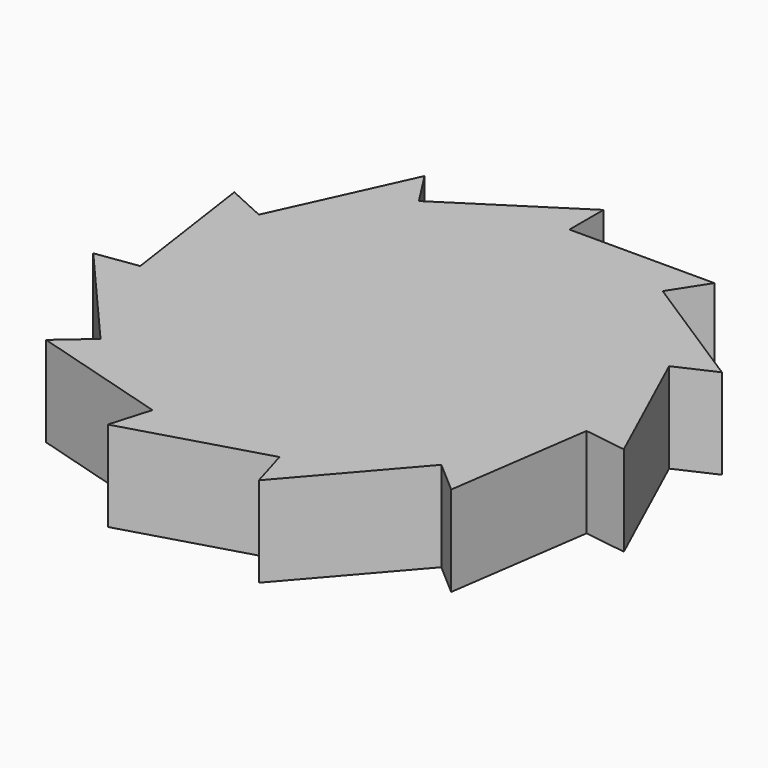
from build123d import *

# Parameters (mm, degrees)
F1_DEPTH = 10


with BuildPart() as f1:
    # F0 (on Top) → F1 (new body)
    with BuildSketch(Plane.XY):
        Polygon((0, 25), (0, 29.717557), (-13.51602, 21.031338), (-16.066524, 25), (-22.7408, 10.385375), (-27.032041, 12.345119), (-24.745536, -3.557871), (-29.415075, -4.229249), (-18.893739, -16.371518), (-22.459031, -19.460861), (-7.043314, -23.987324), (-8.372403, -28.513787), (7.043314, -23.987324), (8.372403, -28.513787), (18.893739, -16.371518), (22.459031, -19.460861), (24.745536, -3.557871), (29.415075, -4.229249), (22.7408, 10.385375), (27.032041, 12.345119), (13.51602, 21.031338), (16.066524, 25), align=None)
    extrude(amount=F1_DEPTH)


solid = f1.part
